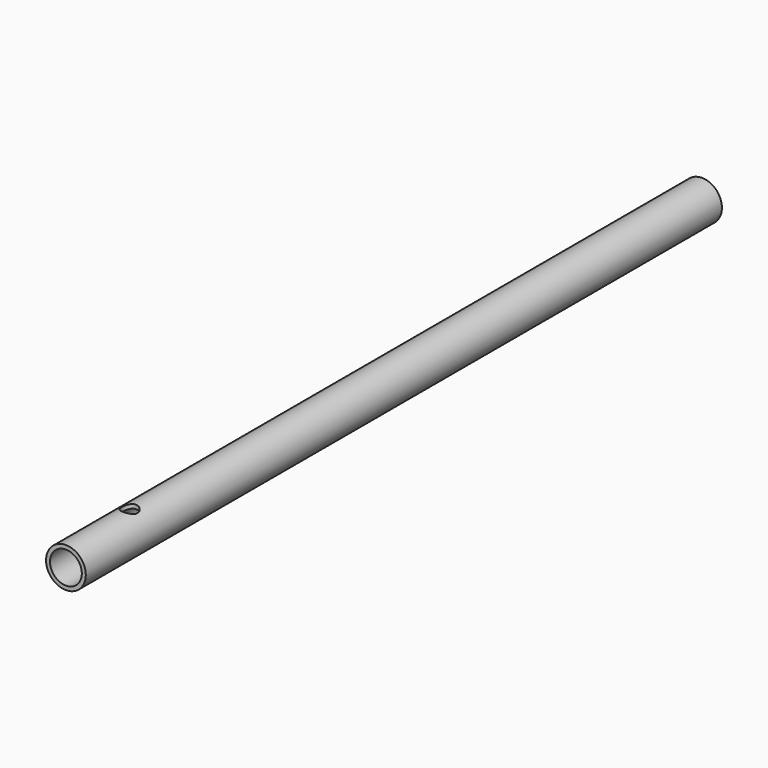
from build123d import *

# Parameters (mm, degrees)
F0_R     = 25
F1_DEPTH = 1000
F2_R     = 20
F3_DEPTH = 1000.001
F4_R     = 10
F5_DEPTH = 25.4


with BuildPart() as f1:
    # F0 (on Front) → F1 (new body)
    with BuildSketch(Plane.XZ):
        Circle(F0_R)
    extrude(amount=-F1_DEPTH)

    # F2 (on Front) → F3 (cut, through all)
    with BuildSketch(Plane.XZ):
        Circle(F2_R)
    extrude(amount=-F3_DEPTH, mode=Mode.SUBTRACT)

    # F4 (on Top) → F5 (cut)
    with BuildSketch(Plane.XY):
        with Locations((0, 100)):
            Circle(F4_R)
    extrude(amount=F5_DEPTH, mode=Mode.SUBTRACT)


solid = f1.part
